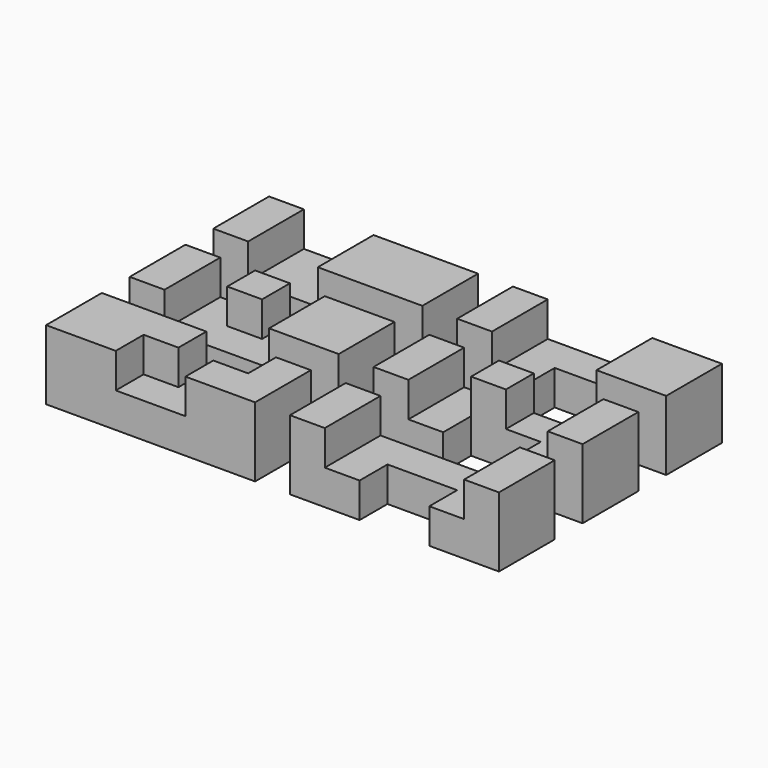
from build123d import *

# Parameters (mm, degrees)
F0_W     = 6.35
F0_H     = 12.7
F1_DEPTH = 12.7
F0_W_2   = 19.05
F0_W_3   = 12.7
F0_W_4   = 6.3499998555
F0_H_2   = 6.35
F2_DEPTH = 6.35


with BuildPart() as f1:
    # F0 (on Top) → F1 (new body)
    with BuildSketch(Plane.XY):
        with Locations((-38.1, 19.05)):
            Rectangle(F0_W, F0_H)
    extrude(amount=F1_DEPTH)



with BuildPart() as f1b:
    # F0 (on Top) → F1, piece 2 (new body)
    with BuildSketch(Plane.XY):
        with Locations((-12.7, 19.05)):
            Rectangle(F0_W_2, F0_H)
    extrude(amount=F1_DEPTH)


with BuildPart() as f1c:
    # F0 (on Top) → F1, piece 3 (new body)
    with BuildSketch(Plane.XY):
        with Locations((-38.1, 0)):
            Rectangle(F0_W, F0_H)
    extrude(amount=F1_DEPTH)



with BuildPart() as f1d:
    # F0 (on Top) → F1, piece 4 (new body)
    with BuildSketch(Plane.XY):
        with Locations((-9.525, 0)):
            Rectangle(F0_W_3, F0_H)
    extrude(amount=F1_DEPTH)


with BuildPart() as f1e:
    # F0 (on Top) → F1, piece 5 (new body)
    with BuildSketch(Plane.XY):
        with Locations((-25.3999999277, 3.175)):
            Rectangle(F0_W_4, F0_H_2)
    extrude(amount=F1_DEPTH)


with BuildPart() as f1f:
    # F0 (on Top) → F1, piece 6 (new body)
    with BuildSketch(Plane.XY):
        Polygon((-41.275, -12.7), (-41.275, -25.4), (-28.5749994218, -25.4), (-28.5749994218, -19.05), (-22.225, -19.05), (-22.225, -12.7), align=None)
    extrude(amount=F1_DEPTH)



with BuildPart() as f1g:
    # F0 (on Top) → F1, piece 7 (new body)
    with BuildSketch(Plane.XY):
        Polygon((-15.875, -19.05), (-15.875, -25.4), (-3.175, -25.4), (-3.175, -12.7), (-9.525, -12.7), (-9.525, -19.05), align=None)
    extrude(amount=F1_DEPTH)


with BuildPart() as f1h:
    # F0 (on Top) → F1, piece 8 (new body)
    with BuildSketch(Plane.XY):
        Polygon((28.575, 12.7), (41.275, 12.7), (41.275, 25.4), (28.575, 25.4), (28.575, 19.05), align=None)
    extrude(amount=F1_DEPTH)



with BuildPart() as f1i:
    # F0 (on Top) → F1, piece 9 (new body)
    with BuildSketch(Plane.XY):
        with Locations((6.35, 19.05)):
            Rectangle(F0_W, F0_H)
    extrude(amount=F1_DEPTH)


with BuildPart() as f1j:
    # F0 (on Top) → F1, piece 10 (new body)
    with BuildSketch(Plane.XY):
        with Locations((6.35, 0)):
            Rectangle(F0_W, F0_H)
    extrude(amount=F1_DEPTH)



with BuildPart() as f1k:
    # F0 (on Top) → F1, piece 11 (new body)
    with BuildSketch(Plane.XY):
        with Locations((19.05, 3.175)):
            Rectangle(F0_W, F0_H_2)
    extrude(amount=F1_DEPTH)


with BuildPart() as f1l:
    # F0 (on Top) → F1, piece 12 (new body)
    with BuildSketch(Plane.XY):
        with Locations((38.1, 0)):
            Rectangle(F0_W, F0_H)
    extrude(amount=F1_DEPTH)


with BuildPart() as f1m:
    # F0 (on Top) → F1, piece 13 (new body)
    with BuildSketch(Plane.XY):
        with Locations((38.1, -19.05)):
            Rectangle(F0_W, F0_H)
    extrude(amount=F1_DEPTH)



with BuildPart() as f1n:
    # F0 (on Top) → F1, piece 14 (new body)
    with BuildSketch(Plane.XY):
        Polygon((9.525, -19.05), (9.525, -12.7), (3.175, -12.7), (3.175, -25.4), (9.525, -25.4), align=None)
    extrude(amount=F1_DEPTH)


with BuildPart() as f1m_1:
    add(f1m.part)

    add(f1n.part)  # F2 merges F1n
    # F0 (on Top) → F2 (join)
    with BuildSketch(Plane.XY):
        Polygon((28.575, -25.4), (34.925, -25.4), (34.925, -12.7), (9.525, -12.7), (9.525, -19.05), (9.525, -25.4), (15.875, -25.4), (15.875, -19.05), (28.575, -19.05), align=None)
    extrude(amount=F2_DEPTH)


with BuildPart() as f1f_1:
    add(f1f.part)

    add(f1g.part)  # F2#2 merges F1g
    # F0 (on Top) → F2, piece 2 (join)
    with BuildSketch(Plane.XY):
        Polygon((-28.5749994218, -19.05), (-28.5749994218, -25.4), (-15.875, -25.4), (-15.875, -19.05), (-15.875, -12.7), (-22.225, -12.7), (-22.225, -19.05), align=None)
    extrude(amount=F2_DEPTH)


with BuildPart() as f1_1:
    add(f1.part)

    add(f1b.part)  # F2#3 merges F1b
    # F0 (on Top) → F2, piece 3 (join)
    with BuildSketch(Plane.XY):
        with Locations((-28.575, 19.05)):
            Rectangle(F0_W_3, F0_H)
    extrude(amount=F2_DEPTH)


with BuildPart() as f1j_1:
    add(f1j.part)

    add(f1k.part)  # F2#4 merges F1k

    add(f1l.part)  # F2#4 merges F1l
    # F0 (on Top) → F2, piece 4 (join)
    with BuildSketch(Plane.XY):
        Polygon((15.875, 6.35), (9.525, 6.35), (9.525, -6.35), (15.875, -6.35), (15.875, 0), align=None)
        Polygon((34.925, 6.35), (22.225, 6.35), (22.225, 0), (28.575, 0), (28.575, -6.35), (34.925, -6.35), align=None)
    extrude(amount=F2_DEPTH)


with BuildPart() as f1h_1:
    add(f1h.part)

    add(f1i.part)  # F2#5 merges F1i
    # F0 (on Top) → F2, piece 5 (join)
    with BuildSketch(Plane.XY):
        Polygon((15.875, 19.05), (28.575, 19.05), (28.575, 25.4), (9.525, 25.4), (9.525, 12.7), (15.875, 12.7), align=None)
    extrude(amount=F2_DEPTH)


with BuildPart() as f1c_1:
    add(f1c.part)

    add(f1d.part)  # F2#6 merges F1d

    add(f1e.part)  # F2#6 merges F1e
    # F0 (on Top) → F2, piece 6 (join)
    with BuildSketch(Plane.XY):
        Polygon((-34.925, 6.35), (-34.925, -6.35), (-15.875, -6.35), (-15.875, 6.35), (-22.225, 6.35), (-22.225, 0), (-28.5749997109, 0), (-28.5749998555, 6.35), align=None)
    extrude(amount=F2_DEPTH)


solid = Compound([f1m_1.part, f1f_1.part, f1_1.part, f1j_1.part, f1h_1.part, f1c_1.part])
